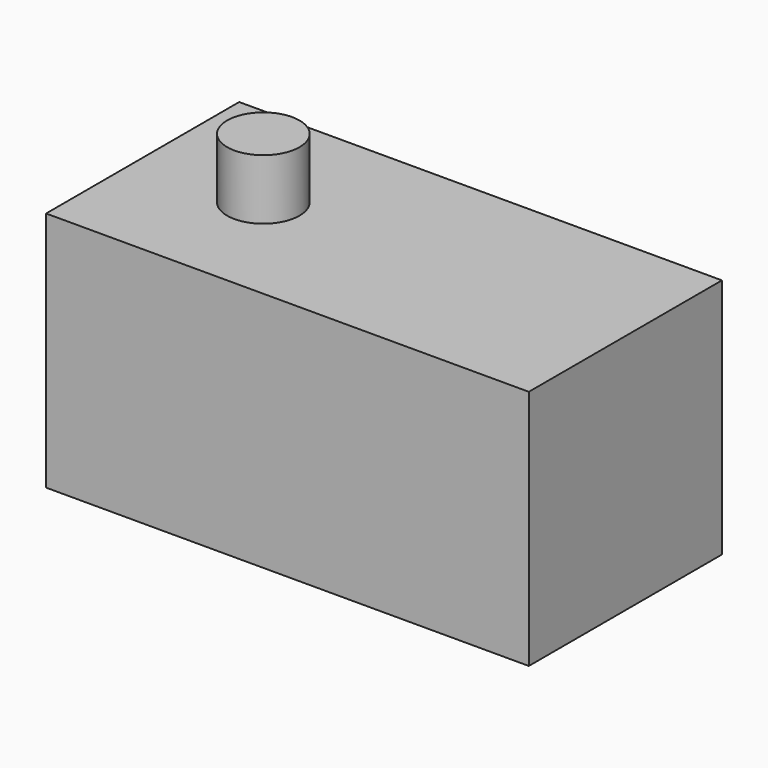
from build123d import *

# Parameters (mm, degrees)
F0_W     = 120
F0_H     = 60
F1_DEPTH = 30
F2_R     = 9
F3_DEPTH = 15


with BuildPart() as f1:
    # F0 (on Front) → F1 (new body, symmetric)
    with BuildSketch(Plane.XZ):
        with Locations((60, 30)):
            Rectangle(F0_W, F0_H)
    extrude(amount=F1_DEPTH, both=True)

    # F2 (on face) → F3 (join)
    with BuildSketch(Plane.XY.offset(60)):
        with Locations((30, 0)):
            Circle(F2_R)
    extrude(amount=F3_DEPTH)


solid = f1.part
